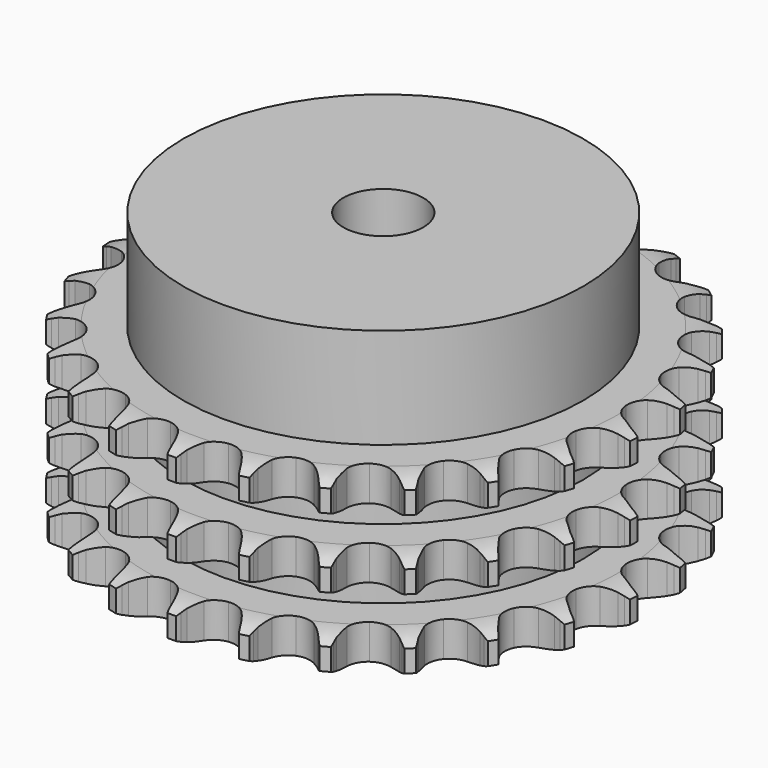
from build123d import *

# Parameters (mm, degrees)
PAD_DEPTH         = 34.9
SKETCH001_R       = 40
PAD001_DEPTH      = 55
SKETCH002_R       = 8
POCKET_DEPTH      = 0.001
POCKET_DEPTH_BACK = 55.001


with BuildPart() as part:
    # Sprocket → Pad (new body)
    with BuildSketch(Plane.XY):
        with BuildLine():
            ThreePointArc((-6.825515, 54.029512), (-5.97163, 52.958476), (-5.343791, 51.74108))
            Line((-5.343791, 51.74108), (-4.930087, 50.698311))
            ThreePointArc((-4.930087, 50.698311), (-4.270135, 49.31965), (-3.427403, 48.044487))
            ThreePointArc((-3.427403, 48.044487), (-1.911575, 46.797155), (0, 46.350559))
            ThreePointArc((0, 46.350559), (1.911575, 46.797155), (3.427403, 48.044487))
            ThreePointArc((3.427403, 48.044487), (4.270135, 49.31965), (4.930087, 50.698311))
            Line((4.930087, 50.698311), (5.343791, 51.74108))
            ThreePointArc((5.343791, 51.74108), (5.97163, 52.958476), (6.825515, 54.029512))
            ThreePointArc((6.825515, 54.029512), (7.386217, 52.779772), (7.691577, 51.444485))
            Line((7.691577, 51.444485), (7.832958, 50.331593))
            ThreePointArc((7.832958, 50.331593), (8.129317, 48.832122), (8.628454, 47.387441))
            ThreePointArc((8.628454, 47.387441), (9.78646, 45.802326), (11.526915, 44.894371))
            ThreePointArc((11.526915, 44.894371), (13.489499, 44.851547), (15.267902, 45.682721))
            Line((15.267902, 45.682721), (17.383356, 47.879467))
            ThreePointArc((17.383356, 47.879467), (17.701929, 48.341356), (18.043389, 48.786592))
            ThreePointArc((18.043389, 48.786592), (18.954258, 49.809604), (20.047672, 50.634639))
            ThreePointArc((20.047672, 50.634639), (20.279961, 49.284721), (20.243656, 47.915444))
            Line((20.243656, 47.915444), (20.103829, 46.802356))
            ThreePointArc((20.103829, 46.802356), (20.017975, 45.276292), (20.142152, 43.752869))
            ThreePointArc((20.142152, 43.752869), (20.869575, 41.929568), (22.329552, 40.617304))
            ThreePointArc((22.329552, 40.617304), (24.219828, 40.087751), (26.149064, 40.450541))
            Line((26.149064, 40.450541), (28.744366, 42.052181))
            ThreePointArc((28.744366, 42.052181), (29.167796, 42.420333), (29.609255, 42.766663))
            ThreePointArc((29.609255, 42.766663), (30.74592, 43.531011), (32.01016, 44.058206))
            ThreePointArc((32.01016, 44.058206), (31.89944, 42.69293), (31.52375, 41.3757))
            Line((31.52375, 41.3757), (31.111503, 40.332355))
            ThreePointArc((31.111503, 40.332355), (30.648829, 38.875587), (30.390245, 37.369142))
            ThreePointArc((30.390245, 37.369142), (30.641379, 35.422221), (31.729141, 33.788103))
            ThreePointArc((31.729141, 33.788103), (33.428336, 32.805095), (35.387183, 32.676705))
            Line((35.387183, 32.676705), (38.299261, 33.582601))
            ThreePointArc((38.299261, 33.582601), (38.800944, 33.833884), (39.314662, 34.059547))
            ThreePointArc((39.314662, 34.059547), (40.605703, 34.517205), (41.961332, 34.713433))
            ThreePointArc((41.961332, 34.713433), (41.514561, 33.418585), (40.823092, 32.236169))
            Line((40.823092, 32.236169), (40.164327, 31.328124))
            ThreePointArc((40.164327, 31.328124), (39.353905, 30.032185), (38.728808, 28.637375))
            ThreePointArc((38.728808, 28.637375), (38.487872, 26.689166), (39.135071, 24.835871))
            ThreePointArc((39.135071, 24.835871), (40.536418, 23.461173), (42.401796, 22.849672))
            Line((42.401796, 22.849672), (45.447672, 23.002903))
            ThreePointArc((45.447672, 23.002903), (45.996086, 23.121528), (46.549785, 23.212345))
            ThreePointArc((46.549785, 23.212345), (47.91408, 23.334556), (49.27592, 23.187488))
            ThreePointArc((49.27592, 23.187488), (48.521168, 22.044427), (47.557369, 21.07112))
            Line((47.557369, 21.07112), (46.693478, 20.355431))
            ThreePointArc((46.693478, 20.355431), (45.586231, 19.30175), (44.633897, 18.106216))
            ThreePointArc((44.633897, 18.106216), (43.91603, 16.279132), (44.082001, 14.32311))
            ThreePointArc((44.082001, 14.32311), (45.097449, 12.6431), (46.752148, 11.586909))
            Line((46.752148, 11.586909), (49.740439, 10.977848))
            ThreePointArc((49.740439, 10.977848), (50.301125, 10.956361), (50.860013, 10.906626))
            ThreePointArc((50.860013, 10.906626), (52.211839, 10.685711), (53.49432, 10.204587))
            ThreePointArc((53.49432, 10.204587), (52.479013, 9.285137), (51.303441, 8.582095))
            Line((51.303441, 8.582095), (50.288706, 8.103732))
            ThreePointArc((50.288706, 8.103732), (48.954205, 7.358516), (47.734474, 6.437378))
            ThreePointArc((47.734474, 6.437378), (46.584783, 4.846221), (46.259097, 2.910376))
            ThreePointArc((46.259097, 2.910376), (46.824841, 1.030614), (48.16489, -0.403901))
            Line((48.16489, -0.403901), (50.907832, -1.736985))
            ThreePointArc((50.907832, -1.736985), (51.445559, -1.897234), (51.97452, -2.084397))
            ThreePointArc((51.97452, -2.084397), (53.228936, -2.634557), (54.351475, -3.419505))
            ThreePointArc((54.351475, -3.419505), (53.139408, -4.057572), (51.825929, -4.446174))
            Line((51.825929, -4.446174), (50.72411, -4.657154))
            ThreePointArc((50.72411, -4.657154), (49.246207, -5.047081), (47.835718, -5.635945))
            ThreePointArc((47.835718, -5.635945), (46.326443, -6.891196), (45.529563, -8.685229))
            ThreePointArc((45.529563, -8.685229), (45.610056, -10.646628), (46.551256, -12.369333))
            Line((46.551256, -12.369333), (48.876498, -14.342678))
            ThreePointArc((48.876498, -14.342678), (49.357479, -14.631619), (49.823276, -14.944449))
            ThreePointArc((49.823276, -14.944449), (50.901464, -15.789285), (51.793527, -16.828737))
            ThreePointArc((51.793527, -16.828737), (50.460858, -17.14533), (49.092004, -17.195074))
            Line((49.092004, -17.195074), (47.972332, -17.125415))
            ThreePointArc((47.972332, -17.125415), (46.443889, -17.135552), (44.931268, -17.355141))
            ThreePointArc((44.931268, -17.355141), (43.157241, -18.195615), (41.93924, -19.735108))
            ThreePointArc((41.93924, -19.735108), (41.529423, -21.654905), (42.012634, -23.557554))
            Line((42.012634, -23.557554), (43.774074, -26.047167))
            ThreePointArc((43.774074, -26.047167), (44.168087, -26.446646), (44.541453, -26.865487))
            ThreePointArc((44.541453, -26.865487), (45.375665, -27.951915), (45.981201, -29.180558))
            ThreePointArc((45.981201, -29.180558), (44.611668, -29.155783), (43.273447, -28.863544))
            Line((43.273447, -28.863544), (42.206276, -28.517622))
            ThreePointArc((42.206276, -28.517622), (40.72333, -28.147333), (39.203622, -27.983849))
            ThreePointArc((39.203622, -27.983849), (37.276312, -28.356735), (35.713719, -29.544958))
            ThreePointArc((35.713719, -29.544958), (34.839344, -31.302524), (34.834205, -33.265568))
            Line((34.834205, -33.265568), (35.921164, -36.115017))
            ThreePointArc((35.921164, -36.115017), (36.203452, -36.599932), (36.460927, -37.098467))
            ThreePointArc((36.460927, -37.098467), (36.998747, -38.358223), (37.279708, -39.698857))
            ThreePointArc((37.279708, -39.698857), (35.959362, -39.334271), (34.735861, -38.718411))
            Line((34.735861, -38.718411), (33.788244, -38.117963))
            ThreePointArc((33.788244, -38.117963), (32.443975, -37.390513), (31.012668, -36.85423))
            ThreePointArc((31.012668, -36.85423), (29.053175, -36.736098), (27.244175, -37.49839))
            ThreePointArc((27.244175, -37.49839), (25.960181, -38.98329), (25.467014, -40.883383))
            Line((25.467014, -40.883383), (25.811195, -43.913627))
            ThreePointArc((25.811195, -43.913627), (25.964021, -44.453511), (26.089426, -45.000414))
            ThreePointArc((26.089426, -45.000414), (26.297061, -46.354343), (26.235793, -47.72273))
            ThreePointArc((26.235793, -47.72273), (25.047597, -47.041242), (24.015693, -46.140459))
            Line((24.015693, -46.140459), (23.247172, -45.323211))
            ThreePointArc((23.247172, -45.323211), (22.126046, -44.28431), (20.873074, -43.408923))
            ThreePointArc((20.873074, -43.408923), (19.00452, -42.807197), (17.062779, -43.09566))
            ThreePointArc((17.062779, -43.09566), (15.449844, -44.214592), (14.499637, -45.932345))
            Line((14.499637, -45.932345), (14.079414, -48.952983))
            ThreePointArc((14.079414, -48.952983), (14.093175, -49.513911), (14.078631, -50.07482))
            ThreePointArc((14.078631, -50.07482), (13.943034, -51.437849), (13.543387, -52.748009))
            ThreePointArc((13.543387, -52.748009), (12.561999, -51.792439), (11.78653, -50.663331))
            Line((11.78653, -50.663331), (11.245395, -49.680636))
            ThreePointArc((11.245395, -49.680636), (10.417855, -48.39556), (9.421947, -47.236074))
            ThreePointArc((9.421947, -47.236074), (7.761741, -46.188562), (5.809265, -45.985071))
            ThreePointArc((5.809265, -45.985071), (3.968737, -46.66773), (2.621194, -48.095209))
            Line((2.621194, -48.095209), (1.462971, -50.916443))
            ThreePointArc((1.462971, -50.916443), (1.336803, -51.463171), (1.183223, -52.00284))
            ThreePointArc((1.183223, -52.00284), (0.712915, -53.289326), (0, -54.458937))
            ThreePointArc((0, -54.458937), (-0.712915, -53.289326), (-1.183223, -52.00284))
            Line((-1.183223, -52.00284), (-1.462971, -50.916443))
            ThreePointArc((-1.462971, -50.916443), (-1.944927, -49.46594), (-2.621194, -48.095209))
            ThreePointArc((-2.621194, -48.095209), (-3.968737, -46.66773), (-5.809265, -45.985071))
            ThreePointArc((-5.809265, -45.985071), (-7.761741, -46.188562), (-9.421947, -47.236074))
            Line((-9.421947, -47.236074), (-11.245395, -49.680636))
            ThreePointArc((-11.245395, -49.680636), (-11.503565, -50.17881), (-11.78653, -50.663331))
            ThreePointArc((-11.78653, -50.663331), (-12.561999, -51.792439), (-13.543387, -52.748009))
            ThreePointArc((-13.543387, -52.748009), (-13.943034, -51.437849), (-14.078631, -50.07482))
            Line((-14.078631, -50.07482), (-14.079414, -48.952983))
            ThreePointArc((-14.079414, -48.952983), (-14.185503, -47.428193), (-14.499637, -45.932345))
            ThreePointArc((-14.499637, -45.932345), (-15.449844, -44.214592), (-17.062779, -43.09566))
            ThreePointArc((-17.062779, -43.09566), (-19.00452, -42.807197), (-20.873074, -43.408923))
            Line((-20.873074, -43.408923), (-23.247172, -45.323211))
            ThreePointArc((-23.247172, -45.323211), (-23.621122, -45.74153), (-24.015693, -46.140459))
            ThreePointArc((-24.015693, -46.140459), (-25.047597, -47.041242), (-26.235793, -47.72273))
            ThreePointArc((-26.235793, -47.72273), (-26.297061, -46.354343), (-26.089426, -45.000414))
            Line((-26.089426, -45.000414), (-25.811195, -43.913627))
            ThreePointArc((-25.811195, -43.913627), (-25.534751, -42.410358), (-25.467014, -40.883383))
            ThreePointArc((-25.467014, -40.883383), (-25.960181, -38.98329), (-27.244175, -37.49839))
            ThreePointArc((-27.244175, -37.49839), (-29.053175, -36.736098), (-31.012668, -36.85423))
            Line((-31.012668, -36.85423), (-33.788244, -38.117963))
            ThreePointArc((-33.788244, -38.117963), (-34.254477, -38.430142), (-34.735861, -38.718411))
            ThreePointArc((-34.735861, -38.718411), (-35.959362, -39.334271), (-37.279708, -39.698857))
            ThreePointArc((-37.279708, -39.698857), (-36.998747, -38.358223), (-36.460927, -37.098467))
            Line((-36.460927, -37.098467), (-35.921164, -36.115017))
            ThreePointArc((-35.921164, -36.115017), (-35.279557, -34.727724), (-34.834205, -33.265568))
            ThreePointArc((-34.834205, -33.265568), (-34.839344, -31.302524), (-35.713719, -29.544958))
            ThreePointArc((-35.713719, -29.544958), (-37.276312, -28.356735), (-39.203622, -27.983849))
            Line((-39.203622, -27.983849), (-42.206276, -28.517622))
            ThreePointArc((-42.206276, -28.517622), (-42.735497, -28.704046), (-43.273447, -28.863544))
            ThreePointArc((-43.273447, -28.863544), (-44.611668, -29.155783), (-45.981201, -29.180558))
            ThreePointArc((-45.981201, -29.180558), (-45.375665, -27.951915), (-44.541453, -26.865487))
            Line((-44.541453, -26.865487), (-43.774074, -26.047167))
            ThreePointArc((-43.774074, -26.047167), (-42.807619, -24.86302), (-42.012634, -23.557554))
            ThreePointArc((-42.012634, -23.557554), (-41.529423, -21.654905), (-41.93924, -19.735108))
            ThreePointArc((-41.93924, -19.735108), (-43.157241, -18.195615), (-44.931268, -17.355141))
            Line((-44.931268, -17.355141), (-47.972332, -17.125415))
            ThreePointArc((-47.972332, -17.125415), (-48.531289, -17.17437), (-49.092004, -17.195074))
            ThreePointArc((-49.092004, -17.195074), (-50.460858, -17.14533), (-51.793527, -16.828737))
            ThreePointArc((-51.793527, -16.828737), (-50.901464, -15.789285), (-49.823276, -14.944449))
            Line((-49.823276, -14.944449), (-48.876498, -14.342678))
            ThreePointArc((-48.876498, -14.342678), (-47.64592, -13.43608), (-46.551256, -12.369333))
            ThreePointArc((-46.551256, -12.369333), (-45.610056, -10.646628), (-45.529563, -8.685229))
            ThreePointArc((-45.529563, -8.685229), (-46.326443, -6.891196), (-47.835718, -5.635945))
            Line((-47.835718, -5.635945), (-50.72411, -4.657154))
            ThreePointArc((-50.72411, -4.657154), (-51.277682, -4.565565), (-51.825929, -4.446174))
            ThreePointArc((-51.825929, -4.446174), (-53.139408, -4.057572), (-54.351475, -3.419505))
            ThreePointArc((-54.351475, -3.419505), (-53.228936, -2.634557), (-51.97452, -2.084397))
            Line((-51.97452, -2.084397), (-50.907832, -1.736985))
            ThreePointArc((-50.907832, -1.736985), (-49.490453, -1.164903), (-48.16489, -0.403901))
            ThreePointArc((-48.16489, -0.403901), (-46.824841, 1.030614), (-46.259097, 2.910376))
            ThreePointArc((-46.259097, 2.910376), (-46.584783, 4.846221), (-47.734474, 6.437378))
            Line((-47.734474, 6.437378), (-50.288706, 8.103732))
            ThreePointArc((-50.288706, 8.103732), (-50.802109, 8.330112), (-51.303441, 8.582095))
            ThreePointArc((-51.303441, 8.582095), (-52.479013, 9.285137), (-53.49432, 10.204587))
            ThreePointArc((-53.49432, 10.204587), (-52.211839, 10.685711), (-50.860013, 10.906626))
            Line((-50.860013, 10.906626), (-49.740439, 10.977848))
            ThreePointArc((-49.740439, 10.977848), (-48.225319, 11.17947), (-46.752148, 11.586909))
            ThreePointArc((-46.752148, 11.586909), (-45.097449, 12.6431), (-44.082001, 14.32311))
            ThreePointArc((-44.082001, 14.32311), (-43.91603, 16.279132), (-44.633897, 18.106216))
            Line((-44.633897, 18.106216), (-46.693478, 20.355431))
            ThreePointArc((-46.693478, 20.355431), (-47.134452, 20.702377), (-47.557369, 21.07112))
            ThreePointArc((-47.557369, 21.07112), (-48.521168, 22.044427), (-49.27592, 23.187488))
            ThreePointArc((-49.27592, 23.187488), (-47.91408, 23.334556), (-46.549785, 23.212345))
            Line((-46.549785, 23.212345), (-45.447672, 23.002903))
            ThreePointArc((-45.447672, 23.002903), (-43.930011, 22.821396), (-42.401796, 22.849672))
            ThreePointArc((-42.401796, 22.849672), (-40.536418, 23.461173), (-39.135071, 24.835871))
            ThreePointArc((-39.135071, 24.835871), (-38.487872, 26.689166), (-38.728808, 28.637375))
            Line((-38.728808, 28.637375), (-40.164327, 31.328124))
            ThreePointArc((-40.164327, 31.328124), (-40.505165, 31.773835), (-40.823092, 32.236169))
            ThreePointArc((-40.823092, 32.236169), (-41.514561, 33.418585), (-41.961332, 34.713433))
            ThreePointArc((-41.961332, 34.713433), (-40.605703, 34.517205), (-39.314662, 34.059547))
            Line((-39.314662, 34.059547), (-38.299261, 33.582601))
            ThreePointArc((-38.299261, 33.582601), (-36.874419, 33.029369), (-35.387183, 32.676705))
            ThreePointArc((-35.387183, 32.676705), (-33.428336, 32.805095), (-31.729141, 33.788103))
            ThreePointArc((-31.729141, 33.788103), (-30.641379, 35.422221), (-30.390245, 37.369142))
            Line((-30.390245, 37.369142), (-31.111503, 40.332355))
            ThreePointArc((-31.111503, 40.332355), (-31.33079, 40.848827), (-31.52375, 41.3757))
            ThreePointArc((-31.52375, 41.3757), (-31.89944, 42.69293), (-32.01016, 44.058206))
            ThreePointArc((-32.01016, 44.058206), (-30.74592, 43.531011), (-29.609255, 42.766663))
            Line((-29.609255, 42.766663), (-28.744366, 42.052181))
            ThreePointArc((-28.744366, 42.052181), (-27.501871, 41.161986), (-26.149064, 40.450541))
            ThreePointArc((-26.149064, 40.450541), (-24.219828, 40.087751), (-22.329552, 40.617304))
            ThreePointArc((-22.329552, 40.617304), (-20.869575, 41.929568), (-20.142152, 43.752869))
            Line((-20.142152, 43.752869), (-20.103829, 46.802356))
            ThreePointArc((-20.103829, 46.802356), (-20.187785, 47.357136), (-20.243656, 47.915444))
            ThreePointArc((-20.243656, 47.915444), (-20.279961, 49.284721), (-20.047672, 50.634639))
            ThreePointArc((-20.047672, 50.634639), (-18.954258, 49.809604), (-18.043389, 48.786592))
            Line((-18.043389, 48.786592), (-17.383356, 47.879467))
            ThreePointArc((-17.383356, 47.879467), (-16.401279, 46.708243), (-15.267902, 45.682721))
            ThreePointArc((-15.267902, 45.682721), (-13.489499, 44.851547), (-11.526915, 44.894371))
            ThreePointArc((-11.526915, 44.894371), (-9.78646, 45.802326), (-8.628454, 47.387441))
            Line((-8.628454, 47.387441), (-7.832958, 50.331593))
            ThreePointArc((-7.832958, 50.331593), (-7.776308, 50.889823), (-7.691577, 51.444485))
            ThreePointArc((-7.691577, 51.444485), (-7.386217, 52.779772), (-6.825515, 54.029512))
        make_face()
    extrude(amount=PAD_DEPTH)

    # Sketch → Groove (revolve, cut)
    with BuildSketch(Plane.XZ):
        with BuildLine():
            ThreePointArc((47.233431, 0), (50.14032, 0.329167), (52.9, 1.3))
            Line((52.9, 1.3), (52.9, 5.7))
            ThreePointArc((52.9, 5.7), (50.14032, 6.670833), (47.233431, 7))
            Line((40, 7), (47.233431, 7))
            Line((40, 7), (40, 13.95))
            Line((40, 13.95), (47.233431, 13.95))
            ThreePointArc((47.233431, 13.95), (50.14032, 14.279167), (52.9, 15.25))
            Line((52.9, 19.65), (52.9, 15.25))
            ThreePointArc((52.9, 19.65), (50.14032, 20.620833), (47.233431, 20.95))
            Line((40, 20.95), (47.233431, 20.95))
            Line((40, 27.9), (40, 20.95))
            Line((47.233431, 27.9), (40, 27.9))
            ThreePointArc((47.233431, 27.9), (50.14032, 28.229167), (52.9, 29.2))
            Line((52.9, 29.2), (52.9, 33.6))
            ThreePointArc((52.9, 33.6), (50.14032, 34.570833), (47.233431, 34.9))
            Line((47.233431, 34.9), (62.9, 34.9))
            Line((62.9, 34.9), (62.9, 0))
            Line((47.233431, 0), (62.9, 0))
        make_face()
    revolve(axis=Axis((0, 0, 0), (0, 0, 1)), mode=Mode.SUBTRACT)

    # Sketch001 → Pad001 (join)
    with BuildSketch(Plane.XY):
        Circle(SKETCH001_R)
    extrude(amount=PAD001_DEPTH)

    # Sketch002 → Pocket (cut, two sides)
    with BuildSketch(Plane.XY) as pocket_sk:
        Circle(SKETCH002_R)
    extrude(amount=-POCKET_DEPTH, mode=Mode.SUBTRACT)
    extrude(pocket_sk.sketch, amount=POCKET_DEPTH_BACK, mode=Mode.SUBTRACT)


solid = part.part
